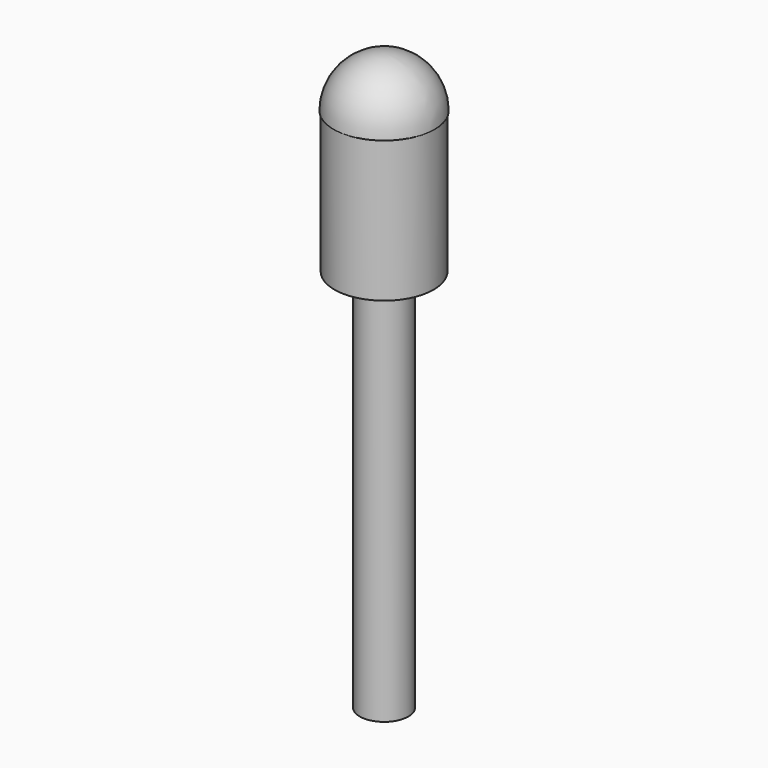
from build123d import *

# Parameters (mm, degrees)
F0_R     = 0.48
F1_DEPTH = 7.6
F2_R     = 0.981
F2_R_2   = 0.48
F3_DEPTH = 2.8
F6_SCALE = 3


with BuildPart() as f1:
    # F0 (on Top) → F1 (new body)
    with BuildSketch(Plane.XY):
        Circle(F0_R)
    extrude(amount=F1_DEPTH)

    # F2 (on face) → F3 (join)
    with BuildSketch(Plane.XY.offset(7.6)):
        Circle(F2_R)
        Circle(F2_R_2, mode=Mode.SUBTRACT)
        Circle(F2_R_2)
    extrude(amount=F3_DEPTH)

    # F4 (on Front) → F5 (revolve)
    with BuildSketch(Plane.XZ):
        with BuildLine():
            Line((0, 10.4), (1, 10.4))
            ThreePointArc((1, 10.4), (0.7071067812, 11.1071067812), (0, 11.4))
            Line((0, 11.4), (0, 10.4))
        make_face()
    revolve(axis=Axis((0, 0, 7.5), (0, 0, 1)))


with BuildPart() as f1_1:
    # F6: moved
    add(f1.part.scale(F6_SCALE))


solid = f1_1.part
